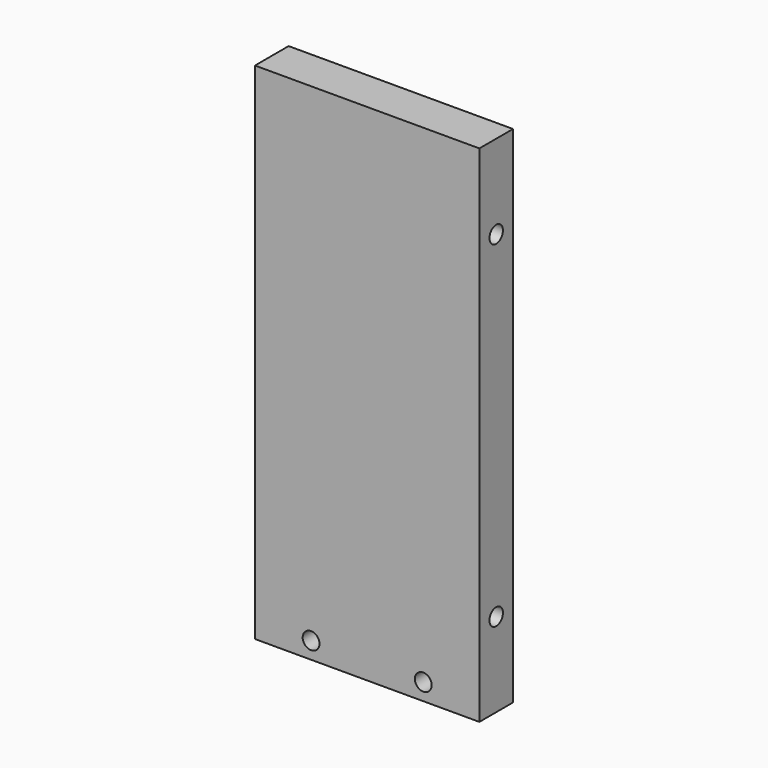
from build123d import *

# Parameters (mm, degrees)
F0_W     = 80
F0_H     = 180
F1_DEPTH = 15
F2_R     = 3
F3_DEPTH = 15.001
F4_R     = 3
F5_DEPTH = 80.001


with BuildPart() as f1:
    # F0 (on Front) → F1 (new body)
    with BuildSketch(Plane.XZ):
        with Locations((40, 90)):
            Rectangle(F0_W, F0_H)
    extrude(amount=F1_DEPTH)

    # F2 (on face) → F3 (cut, through all)
    with BuildSketch(Plane.XZ.offset(15)):
        with Locations((60, 6)):
            Circle(F2_R)
        with Locations((20, 6)):
            Circle(F2_R)
    extrude(amount=-F3_DEPTH, mode=Mode.SUBTRACT)

    # F4 (on face) → F5 (cut, through all)
    with BuildSketch(Plane(origin=(0, 0, 0), x_dir=(0, -1, 0), z_dir=(-1, 0, 0))):
        with Locations((7.5, 30)):
            Circle(F4_R)
        with Locations((7.5, 150)):
            Circle(F4_R)
    extrude(amount=-F5_DEPTH, mode=Mode.SUBTRACT)


solid = f1.part
